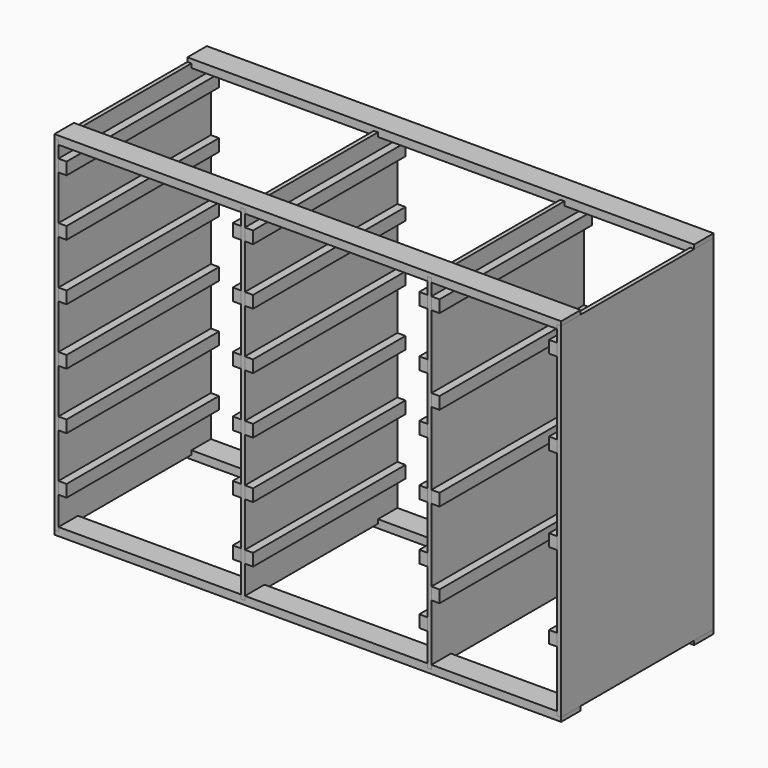
from build123d import *

# Parameters (mm, degrees)
F1_DEPTH = 38.1
F5_DEPTH = 298.45
F4_W     = 12.7
F4_H     = 19.05
F6_DEPTH = 298.45


with BuildPart() as f1:
    # F0 (on Front) → F1 (new body)
    with BuildSketch(Plane.XZ):
        Polygon((0, 6.35), (0, 0), (793.75, 0), (793.75, 6.35), (787.4, 6.35), (787.4, 12.7), (590.55, 12.7), (590.55, 6.35), (584.2, 6.35), (584.2, 12.7), (298.45, 12.7), (298.45, 6.35), (292.1, 6.35), (292.1, 12.7), (6.35, 12.7), (6.35, 6.35), align=None)
    extrude(amount=-F1_DEPTH)


with BuildPart() as f2_1:
    # F2: instance of F1
    add(f1.part.mirror(Plane(origin=(149.225, 19.05, 12.7), x_dir=(1, 0, 0), z_dir=(0, 0, 1))))


with BuildPart() as f2_1_1:
    # F3: moved
    add(f2_1.part.moved(Location((0, 0, 527.05))))


with BuildPart() as f5:
    # F4 (on face) → F5 (new body)
    with BuildSketch(Plane.XZ):
        Polygon((787.4, 6.35), (793.75, 6.35), (793.75, 546.1), (787.4, 546.1), (787.4, 520.7), (787.4, 501.65), (787.4, 387.35), (787.4, 368.3), (787.4, 254), (787.4, 234.95), (787.4, 120.65), (787.4, 101.6), (787.4, 12.7), align=None)
        Polygon((0, 546.1), (0, 6.35), (6.35, 6.35), (6.35, 12.7), (6.35, 57.15), (6.35, 76.2), (6.35, 146.05), (6.35, 165.1), (6.35, 234.95), (6.35, 254), (6.35, 323.85), (6.35, 342.9), (6.35, 412.75), (6.35, 431.8), (6.35, 501.65), (6.35, 520.7), (6.35, 539.75), (6.35, 546.1), align=None)
        Polygon((590.55, 6.35), (590.55, 12.7), (590.55, 101.6), (590.55, 120.65), (590.55, 234.95), (590.55, 254), (590.55, 368.3), (590.55, 387.35), (590.55, 501.65), (590.55, 520.7), (590.55, 546.1), (584.2, 546.1), (584.2, 520.7), (584.2, 501.65), (584.2, 431.8), (584.2, 412.75), (584.2, 342.9), (584.2, 323.85), (584.2, 254), (584.2, 234.95), (584.2, 165.1), (584.2, 146.05), (584.2, 76.2), (584.2, 57.15), (584.2, 12.7), (584.2, 6.35), align=None)
        Polygon((292.1, 57.15), (292.1, 12.7), (292.1, 6.35), (298.45, 6.35), (298.45, 12.7), (298.45, 57.15), (298.45, 76.2), (298.45, 146.05), (298.45, 165.1), (298.45, 234.95), (298.45, 254), (298.45, 323.85), (298.45, 342.9), (298.45, 412.75), (298.45, 431.8), (298.45, 501.65), (298.45, 520.7), (298.45, 546.1), (292.1, 546.1), (292.1, 539.75), (292.1, 520.7), (292.1, 501.65), (292.1, 431.8), (292.1, 412.75), (292.1, 342.9), (292.1, 323.85), (292.1, 254), (292.1, 234.95), (292.1, 165.1), (292.1, 146.05), (292.1, 76.2), align=None)
    extrude(amount=-F5_DEPTH)


with BuildPart() as f6:
    # F4 (on face) → F6 (new body)
    with BuildSketch(Plane.XZ):
        with Locations((12.7, 511.175)):
            Rectangle(F4_W, F4_H)
        with Locations((12.7, 422.275)):
            Rectangle(F4_W, F4_H)
        with Locations((12.7, 333.375)):
            Rectangle(F4_W, F4_H)
        with Locations((12.7, 244.475)):
            Rectangle(F4_W, F4_H)
        with Locations((12.7, 155.575)):
            Rectangle(F4_W, F4_H)
        with Locations((12.7, 66.675)):
            Rectangle(F4_W, F4_H)
        with Locations((285.75, 66.675)):
            Rectangle(F4_W, F4_H)
        with Locations((304.8, 66.675)):
            Rectangle(F4_W, F4_H)
        with Locations((285.75, 155.575)):
            Rectangle(F4_W, F4_H)
        with Locations((304.8, 155.575)):
            Rectangle(F4_W, F4_H)
        with Locations((285.75, 244.475)):
            Rectangle(F4_W, F4_H)
        with Locations((304.8, 244.475)):
            Rectangle(F4_W, F4_H)
        with Locations((304.8, 333.375)):
            Rectangle(F4_W, F4_H)
        with Locations((285.75, 333.375)):
            Rectangle(F4_W, F4_H)
        with Locations((285.75, 422.275)):
            Rectangle(F4_W, F4_H)
        with Locations((304.8, 422.275)):
            Rectangle(F4_W, F4_H)
        with Locations((285.75, 511.175)):
            Rectangle(F4_W, F4_H)
        with Locations((304.8, 511.175)):
            Rectangle(F4_W, F4_H)
        with Locations((577.85, 511.175)):
            Rectangle(F4_W, F4_H)
        with Locations((596.9, 511.175)):
            Rectangle(F4_W, F4_H)
        with Locations((577.85, 422.275)):
            Rectangle(F4_W, F4_H)
        with Locations((596.9, 377.825)):
            Rectangle(F4_W, F4_H)
        with Locations((577.85, 333.375)):
            Rectangle(F4_W, F4_H)
        with Locations((596.9, 244.475)):
            Rectangle(F4_W, F4_H)
        with Locations((781.05, 511.175)):
            Rectangle(F4_W, F4_H)
        with Locations((781.05, 377.825)):
            Rectangle(F4_W, F4_H)
        with Locations((781.05, 244.475)):
            Rectangle(F4_W, F4_H)
        with Locations((781.05, 111.125)):
            Rectangle(F4_W, F4_H)
        with Locations((596.9, 111.125)):
            Rectangle(F4_W, F4_H)
        with Locations((577.85, 66.675)):
            Rectangle(F4_W, F4_H)
        with Locations((577.85, 155.575)):
            Rectangle(F4_W, F4_H)
        with Locations((577.85, 244.475)):
            Rectangle(F4_W, F4_H)
    extrude(amount=-F6_DEPTH)


with BuildPart() as f7_1:
    # F7: copy of F2_1
    add(f2_1_1.part.moved(Location((0, 260.35, 0))))


with BuildPart() as f7_2:
    # F7: copy of F1
    add(f1.part.moved(Location((0, 260.35, 0))))


solid = Compound([f1.part, f2_1_1.part, f5.part, f6.part, f7_1.part, f7_2.part])
